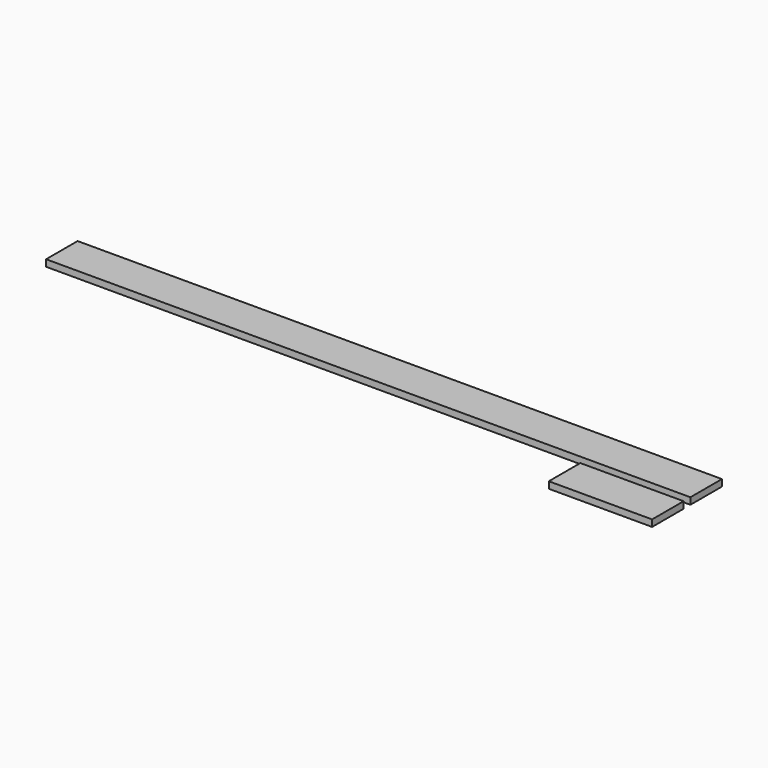
from build123d import *

# Parameters (mm, degrees)
F0_W     = 225
F0_H     = 38
F1_DEPTH = 3680
F2_DEPTH = 590


with BuildPart() as f1:
    # F0 (on Right) → F1 (new body)
    with BuildSketch(Plane.YZ):
        with Locations((161.381289, 0)):
            Rectangle(F0_W, F0_H)
    extrude(amount=-F1_DEPTH)


with BuildPart() as f2:
    # F0 (on Right) → F2 (new body)
    with BuildSketch(Plane.YZ):
        with Locations((-111.971006, -0.294819)):
            Rectangle(F0_W, F0_H)
    extrude(amount=-F2_DEPTH)


solid = Compound([f1.part, f2.part])
